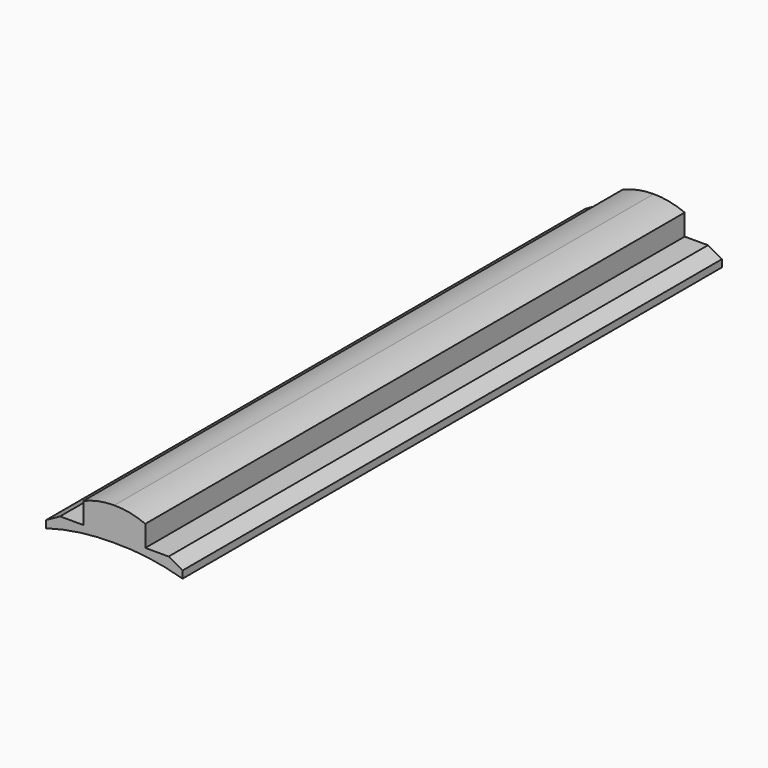
from build123d import *

# Parameters (mm, degrees)
F1_DEPTH = 420


with BuildPart() as f1:
    # F0 (on Front) → F1 (new body)
    with BuildSketch(Plane.XZ):
        with BuildLine():
            Line((19.325156, 17.231597), (19.325156, 30.437117))
            ThreePointArc((19.325156, 30.437117), (9.853935, 33.326417), (0, 34.302149))
            ThreePointArc((0, 34.302149), (-9.853935, 33.326417), (-19.325156, 30.437117))
            Line((-19.325156, 30.437117), (-19.325156, 17.231597))
            Line((-19.325156, 17.231597), (-33.819024, 17.231597))
            Line((-33.819024, 17.231597), (-42.515337, 12.400307))
            Line((-42.515337, 12.400307), (-42.515337, 7.891105))
            ThreePointArc((-42.515337, 7.891105), (-21.473281, 12.371031), (0, 13.688651))
            ThreePointArc((0, 13.688651), (21.473281, 12.371031), (42.515337, 7.891105))
            Line((42.515337, 7.891105), (42.515337, 12.400307))
            Line((42.515337, 12.400307), (33.819024, 17.231597))
            Line((33.819024, 17.231597), (19.325156, 17.231597))
        make_face()
    extrude(amount=F1_DEPTH)


solid = f1.part
